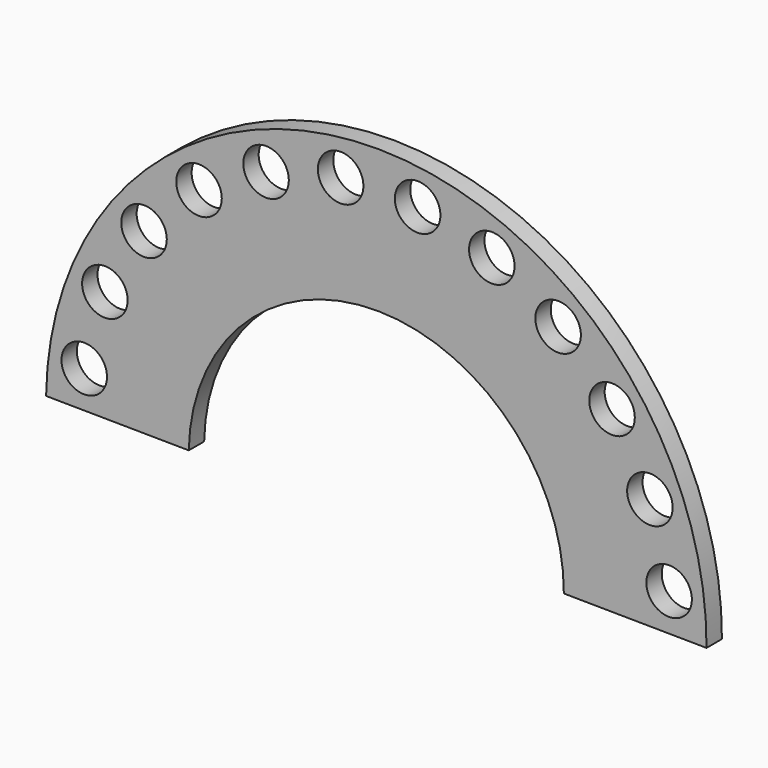
from build123d import *

# Parameters (mm, degrees)
F0_R     = 71
F1_DEPTH = 60


with BuildPart() as f1:
    # F0 (on Front) → F1 (new body)
    with BuildSketch(Plane.XZ):
        with BuildLine():
            ThreePointArc((-813.985563, 103.535805), (-222.842293, 678.27021), (355.920681, 91.070567))
            Line((355.920681, 91.070567), (800.901331, 86.329341))
            ThreePointArc((800.901331, 86.329341), (-218.10113, 1123.244952), (-1258.966213, 108.277031))
            Line((-1258.966213, 108.277031), (-813.985563, 103.535805))
        make_face()
        with Locations((-1139.994805, 222.242215)):
            Circle(F0_R, mode=Mode.SUBTRACT)
        with Locations((-1075.58415, 453.612111)):
            Circle(F0_R, mode=Mode.SUBTRACT)
        with Locations((684.177669, 204.521474)):
            Circle(F0_R, mode=Mode.SUBTRACT)
        with Locations((624.273984, 437.099009)):
            Circle(F0_R, mode=Mode.SUBTRACT)
        with Locations((-953.485299, 660.427565)):
            Circle(F0_R, mode=Mode.SUBTRACT)
        with Locations((-782.019088, 828.594444)):
            Circle(F0_R, mode=Mode.SUBTRACT)
        with Locations((-572.870654, 946.652456)):
            Circle(F0_R, mode=Mode.SUBTRACT)
        with Locations((-340.293119, 1006.55614)):
            Circle(F0_R, mode=Mode.SUBTRACT)
        with Locations((506.215973, 646.247443)):
            Circle(F0_R, mode=Mode.SUBTRACT)
        with Locations((338.049093, 817.713654)):
            Circle(F0_R, mode=Mode.SUBTRACT)
        with Locations((131.233639, 939.812505)):
            Circle(F0_R, mode=Mode.SUBTRACT)
        with Locations((-100.136257, 1004.22316)):
            Circle(F0_R, mode=Mode.SUBTRACT)
    extrude(amount=F1_DEPTH)


solid = f1.part
